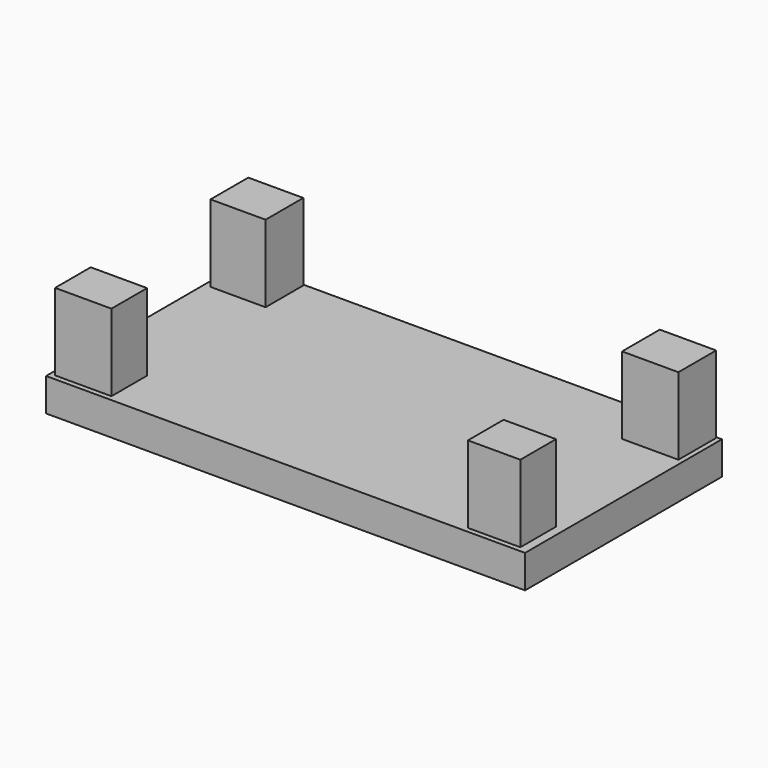
from build123d import *

# Parameters (mm, degrees)
F0_W     = 110.50678
F0_H     = 56.779732
F3_DEPTH = 7.62
F1_W     = 13.002377
F1_H     = 10.885713
F1_W_2   = 12.095236
F1_H_2   = 10.280952
F1_W_3   = 13.002384
F1_W_4   = 12.7
F4_DEPTH = 25.4


with BuildPart() as f3:
    # F0 (on Top) → F3 (new body)
    with BuildSketch(Plane.XY):
        Rectangle(F0_W, F0_H)
    extrude(amount=F3_DEPTH)

    # F1 (on face) → F4 (join)
    with BuildSketch(Plane.XY):
        with Locations((47.624995, 22.690022)):
            Rectangle(F1_W, F1_H)
        with Locations((47.171425, -22.062356)):
            Rectangle(F1_W_2, F1_H_2)
        with Locations((-47.624999, -22.062356)):
            Rectangle(F1_W_3, F1_H_2)
        with Locations((-47.473807, 22.690022)):
            Rectangle(F1_W_4, F1_H)
    extrude(amount=F4_DEPTH)


solid = f3.part
